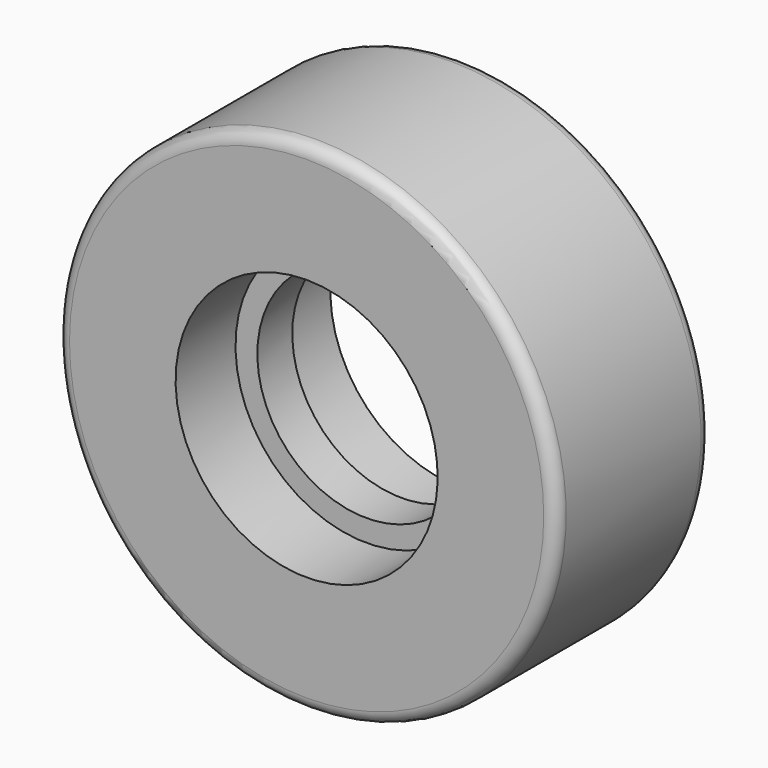
from build123d import *


with BuildPart() as f1:
    # F0 (on Right) → F1 (revolve)
    with BuildSketch(Plane.YZ):
        with BuildLine():
            Line((-15.5, 38), (-15.5, 21))
            Line((-15.5, 21), (-3.5, 21))
            Line((-3.5, 21), (-3.5, 17.5))
            Line((-3.5, 17.5), (3.5, 17.5))
            Line((3.5, 17.5), (3.5, 21))
            Line((3.5, 21), (15.5, 21))
            Line((15.5, 21), (15.5, 38))
            ThreePointArc((15.5, 38), (14.914214, 39.414214), (13.5, 40))
            Line((13.5, 40), (-13.5, 40))
            ThreePointArc((-13.5, 40), (-14.914214, 39.414214), (-15.5, 38))
        make_face()
    revolve(axis=Axis((0, 5.437174, 0), (0, 1, 0)))


solid = f1.part
